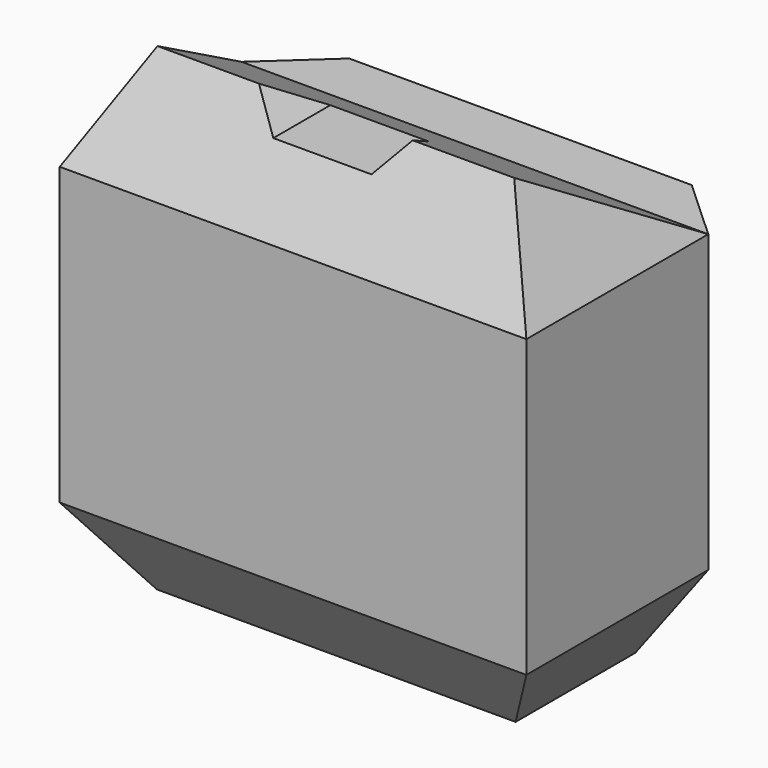
from build123d import *

# Parameters (mm, degrees)
F1_DEPTH = 10.54079
F3_DEPTH = 40.47675
F6_DEPTH = 63.9154165983
F8_DEPTH = 38.9284920647


with BuildPart() as f1:
    # F0 (on Top) → F1 (new body)
    with BuildSketch(Plane.XY):
        Polygon((20.5864314835, 14.5359879601), (-20.5864314835, 14.5359879601), (-24.5693381876, 10.884988199), (-24.5693381876, -9.6147637814), (0, -9.6147637814), (24.5693381876, -9.6147637814), (24.5693381876, 10.884988199), align=None)
    extrude(amount=F1_DEPTH)


with BuildPart() as f1_1:
    # F2: moved
    add(f1.part.moved(Location((0, 0, -11.07701))))


with BuildPart() as f3:
    # F0 (on Top) → F3 (new body)
    with BuildSketch(Plane.XY):
        Polygon((23.4603880877, 21.9243580716), (-23.4603880877, 21.9243580716), (-31.9577082992, 14.1351437196), (-31.9577082992, -17.003133893), (0, -17.003133893), (31.9577082992, -17.003133893), (31.9577082992, 14.1351437196), align=None)
        Polygon((-24.5693381876, 10.884988199), (-20.5864314835, 14.5359879601), (20.5864314835, 14.5359879601), (24.5693381876, 10.884988199), (24.5693381876, -9.6147637814), (0, -9.6147637814), (-24.5693381876, -9.6147637814), align=None, mode=Mode.SUBTRACT)
        Polygon((20.5864314835, 14.5359879601), (-20.5864314835, 14.5359879601), (-24.5693381876, 10.884988199), (-24.5693381876, -9.6147637814), (0, -9.6147637814), (24.5693381876, -9.6147637814), (24.5693381876, 10.884988199), align=None)
    extrude(amount=F3_DEPTH)


with BuildPart() as f4:
    # F3_face (on face) → F4 section 0
    with BuildSketch(Plane(origin=(0, 1.9996451768, 0), x_dir=(1, 0, 0), z_dir=(0, 0, -1))):
        Polygon((-23.4603880877, -19.9247128949), (23.4603880877, -19.9247128949), (31.9577082992, -12.1354985429), (31.9577082992, 19.0027790698), (-31.9577082992, 19.0027790698), (-31.9577082992, -12.1354985429), align=None)
    # F1_face (on face) → F4 section 1
    with BuildSketch(Plane(origin=(0, 2.3259091177, -11.07701), x_dir=(1, 0, 0), z_dir=(0, 0, -1))):
        Polygon((-20.5864314835, -12.2100788423), (20.5864314835, -12.2100788423), (24.5693381876, -8.5590790812), (24.5693381876, 11.9406728992), (-24.5693381876, 11.9406728992), (-24.5693381876, -8.5590790812), align=None)
    loft()


with BuildPart() as f6:
    # F5 (on face) → F6 (new body, through all)
    with BuildSketch(Plane(origin=(-31.9577082992, 0, 0), x_dir=(0, -1, 0), z_dir=(-1, 0, 0))):
        Polygon((-14.1351437196, 40.47675), (17.003133893, 40.47675), (9.6820257604, 54.5051917434), align=None)
    extrude(amount=-F6_DEPTH)

    # F7 (on face) → F8 (cut, through all)
    with BuildSketch(Plane.XZ.offset(17.003133893)):
        Polygon((31.9577082992, 40.47675), (31.9577082992, 54.5051917434), (24.4301687926, 54.5051917434), align=None)
        Polygon((-31.9577082992, 40.47675), (-24.4301687926, 54.5051917434), (-31.9577082992, 54.5051917434), align=None)
        Polygon((6.7252744921, 50.1016229391), (10.5276070535, 54.5051917434), (-10.5276070535, 54.5051917434), (-6.7252744921, 50.1016229391), (0, 50.1016229391), align=None)
    extrude(amount=-F8_DEPTH, mode=Mode.SUBTRACT)


solid = Compound([f1_1.part, f3.part, f4.part, f6.part])
